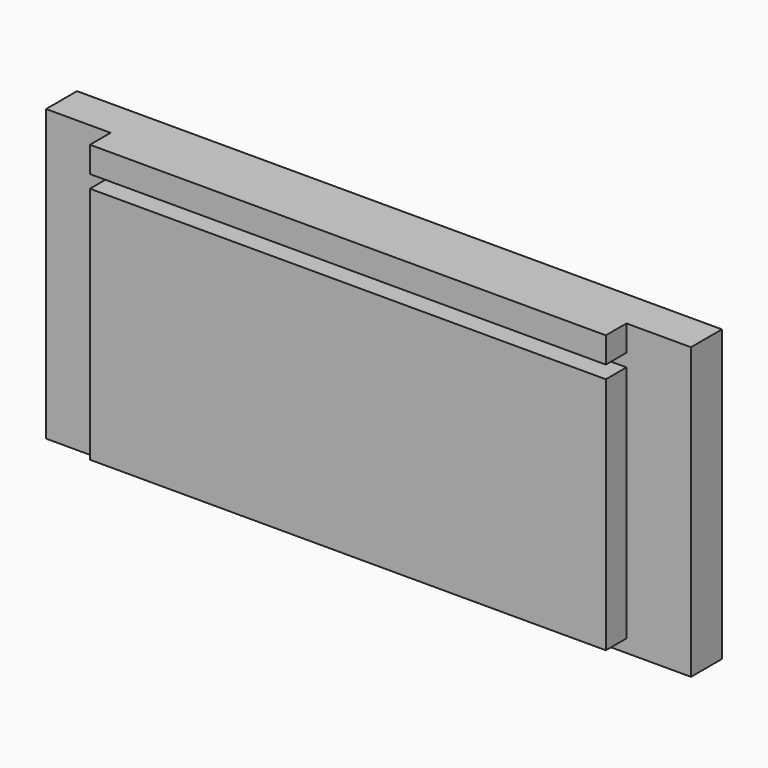
from build123d import *

# Parameters (mm, degrees)
F0_W     = 160
F0_H     = 4
F1_DEPTH = 12
F0_H_2   = 8
F0_H_3   = 74
F2_DEPTH = 20


with BuildPart() as f1:
    # F0 (on Front) → F1 (new body)
    with BuildSketch(Plane.XZ):
        Polygon((-80, 37), (-80, 45), (-100, 45), (-100, -45), (-80, -45), (-80, -41), (-80, 33), align=None)
        with Locations((0, 35)):
            Rectangle(F0_W, F0_H)
        with Locations((0, -43)):
            Rectangle(F0_W, F0_H)
        Polygon((100, -45), (100, 45), (80, 45), (80, 37), (80, 33), (80, -41), (80, -45), align=None)
    extrude(amount=F1_DEPTH)

    # F0 (on Front) → F2 (join)
    with BuildSketch(Plane.XZ):
        with Locations((0, 41)):
            Rectangle(F0_W, F0_H_2)
        with Locations((0, -4)):
            Rectangle(F0_W, F0_H_3)
    extrude(amount=F2_DEPTH)


solid = f1.part
